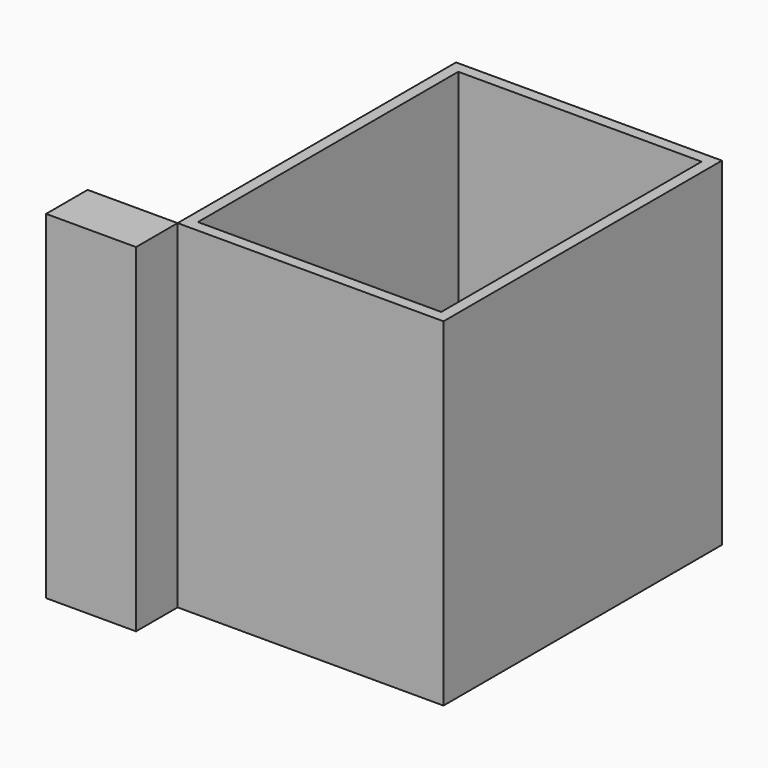
from build123d import *

# Parameters (mm, degrees)
F0_W     = 20.2620141208
F0_H     = 11.6982832551
F1_DEPTH = 76.2
F0_W_2   = 59.8873868585
F0_H_2   = 78.3857703209
F2_T     = -2.54


with BuildPart() as f1:
    # F0 (on Top) → F1 (new body)
    with BuildSketch(Plane.XY):
        with Locations((-25.4190247506, -24.8979590833)):
            Rectangle(F0_W, F0_H)
    extrude(amount=F1_DEPTH)


with BuildPart() as f1b:
    # F0 (on Top) → F1, piece 2 (new body)
    with BuildSketch(Plane.XY):
        with Locations((14.655675739, 20.1440677047)):
            Rectangle(F0_W_2, F0_H_2)
    extrude(amount=F1_DEPTH)

    # F2
    f2_openings = [f1b.faces().sort_by_distance(p)[0] for p in [
        (14.655676, 20.144068, 76.2),
    ]]
    offset(amount=F2_T, openings=f2_openings)


solid = Compound([f1.part, f1b.part])
